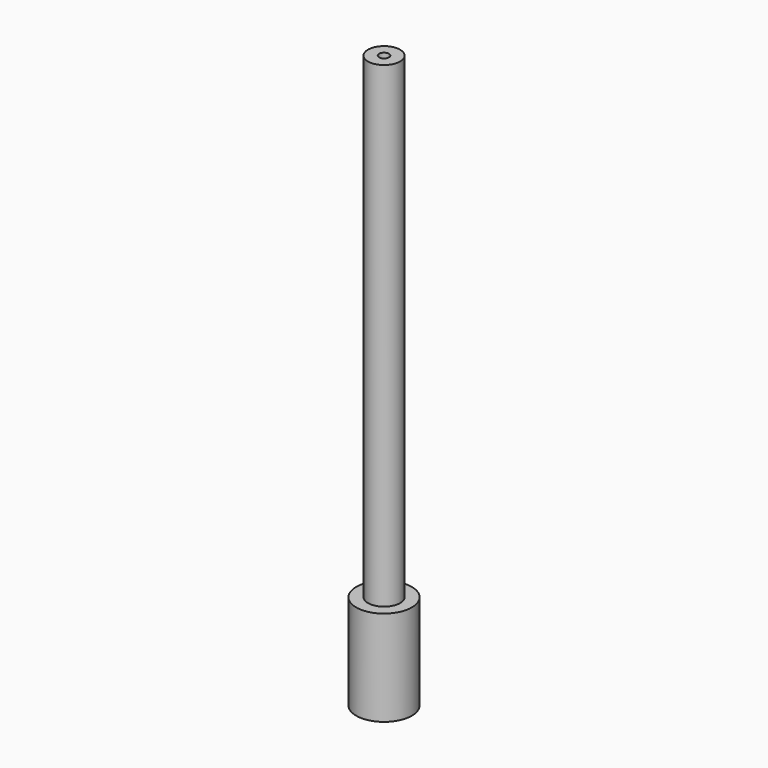
from build123d import *

# Parameters (mm, degrees)
F0_R     = 22.225
F0_R_2   = 12.827
F0_R_3   = 3.9414525169
F1_DEPTH = 76.2
F2_DEPTH = 58.42
F3_START = 71.628
F3_DEPTH = 385.572


with BuildPart() as f1:
    # F0 (on Top) → F1 (new body)
    with BuildSketch(Plane.XY):
        Circle(F0_R)
        Circle(F0_R_2, mode=Mode.SUBTRACT)
        Circle(F0_R_2)
        Circle(F0_R_3, mode=Mode.SUBTRACT)
        Circle(F0_R_3)
    extrude(amount=F1_DEPTH)

    # F0 (on Top) → F2 (cut)
    with BuildSketch(Plane.XY):
        Circle(F0_R_2)
        Circle(F0_R_3, mode=Mode.SUBTRACT)
        Circle(F0_R_3)
    extrude(amount=F2_DEPTH, mode=Mode.SUBTRACT)

    # F0 (on Top) → F3 (join)
    with BuildSketch(Plane.XY.offset(F3_START)):
        Circle(F0_R_2)
        Circle(F0_R_3, mode=Mode.SUBTRACT)
    extrude(amount=F3_DEPTH)


solid = f1.part
